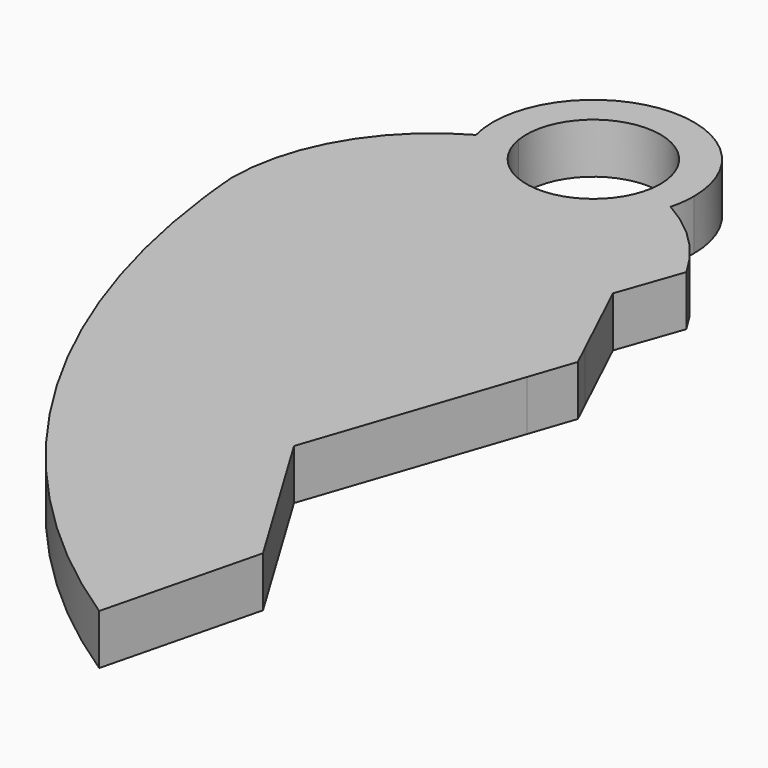
from build123d import *

# Parameters (mm, degrees)
F1_DEPTH = 3


with BuildPart() as f1:
    # F0 (on Top) → F1 (new body)
    with BuildSketch(Plane.XY):
        with BuildLine():
            ThreePointArc((-6.5559468113, 9.3333333333), (-5.6054684353, 8.9564392374), (-4.6905249807, 8.5))
            ThreePointArc((-4.6905249807, 8.5), (-4.5478218224, 9.2439742451), (-4.5, 10))
            ThreePointArc((-4.5, 10), (-11.2560257549, 15.9521781776), (-16.3094750193, 8.5))
            ThreePointArc((-16.3094750193, 8.5), (-15.3945315647, 8.9564392374), (-14.4440531887, 9.3333333333))
            ThreePointArc((-14.4440531887, 9.3333333333), (-10.8345050411, 13.9859887578), (-6.5, 10))
            ThreePointArc((-6.5, 10), (-6.5140112422, 9.6654949589), (-6.5559468113, 9.3333333333))
        make_face()
        with BuildLine():
            ThreePointArc((-16.3094750193, 8.5), (-10.5, 4), (-4.6905249807, 8.5))
            ThreePointArc((-4.6905249807, 8.5), (-5.6054684353, 8.9564392374), (-6.5559468113, 9.3333333333))
            ThreePointArc((-6.5559468113, 9.3333333333), (-10.5, 6), (-14.4440531887, 9.3333333333))
            ThreePointArc((-14.4440531887, 9.3333333333), (-15.3945315647, 8.9564392374), (-16.3094750193, 8.5))
        make_face()
        with BuildLine():
            ThreePointArc((-1.3321595662, 0), (-0.8273722771, 1.9611409085), (0, 3.8094750193))
            ThreePointArc((0, 3.8094750193), (-2.0147186258, 6.4852813742), (-4.6905249807, 8.5))
            ThreePointArc((-4.6905249807, 8.5), (-10.5, 4), (-16.3094750193, 8.5))
            ThreePointArc((-16.3094750193, 8.5), (-20.8371587061, 4.094518019), (-22.5, -2))
            ThreePointArc((-22.5, -2), (-22.3914639986, -3.2113902714), (-22.253495394, -4.4197822265))
            ThreePointArc((-22.253495394, -4.4197822265), (-12.3070188109, -13.8631649663), (0, -7.8094750193))
            ThreePointArc((0, -7.8094750193), (-1.3291298387, -4.0178422283), (-1.3321595662, 0))
        make_face()
        with BuildLine():
            ThreePointArc((0, -7.8094750193), (0.6272994629, -6.4925723882), (1.0901824777, -5.1092877211))
            Line((1.0901824777, -5.1092877211), (-1.3321595662, 0))
            ThreePointArc((-1.3321595662, 0), (-1.3291298387, -4.0178422283), (0, -7.8094750193))
        make_face()
        with BuildLine():
            Line((1.7156613405, -6.4285693978), (1.0901824777, -5.1092877211))
            ThreePointArc((1.0901824777, -5.1092877211), (0.6272994629, -6.4925723882), (0, -7.8094750193))
            ThreePointArc((0, -7.8094750193), (0.3883389068, -8.4617574959), (0.8171440868, -9.0881803987))
            Line((0.8171440868, -9.0881803987), (1.7156613405, -6.4285693978))
        make_face()
        with BuildLine():
            ThreePointArc((0.8171440868, -9.0881803987), (0.3883389068, -8.4617574959), (0, -7.8094750193))
            ThreePointArc((0, -7.8094750193), (-12.3070188109, -13.8631649663), (-22.253495394, -4.4197822265))
            ThreePointArc((-22.253495394, -4.4197822265), (-15.0403231441, -24.6576201784), (0, -40))
            Line((0, -40), (2.3193413737, -30.6764196892))
            Line((2.3193413737, -30.6764196892), (-3.3150132865, -21.3193659027))
            Line((-3.3150132865, -21.3193659027), (0.8171440868, -9.0881803987))
        make_face()
        with BuildLine():
            Line((-1.3321595662, 0), (0, 3.8094750193))
            ThreePointArc((0, 3.8094750193), (-0.8273722771, 1.9611409085), (-1.3321595662, 0))
        make_face()
    extrude(amount=F1_DEPTH)


solid = f1.part
